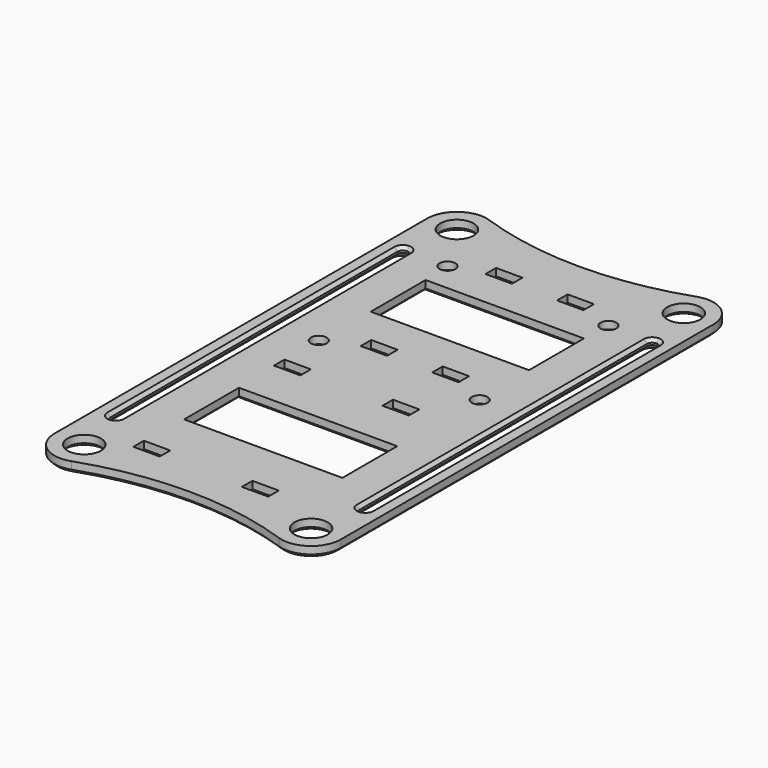
from build123d import *

# Parameters (mm, degrees)
F0_R     = 3.15
F0_W     = 5
F0_H     = 2.5
F0_W_2   = 30
F0_H_2   = 13
F0_R_2   = 1.5
F1_DEPTH = 2
F2_SIZE  = 0.6
F3_SIZE  = 1


with BuildPart() as f1:
    # F0 (on Top) → F1 (new body)
    with BuildSketch(Plane.XY):
        with BuildLine():
            ThreePointArc((19.649657, 49.48842), (0, 46.17961), (-19.649657, 49.48842))
            ThreePointArc((-19.649657, 49.48842), (-24.776283, 48.753093), (-27.15, 44.15))
            Line((-27.15, 44.15), (-27.15, -44.15))
            ThreePointArc((-27.15, -44.15), (-24.776283, -48.753093), (-19.649657, -49.48842))
            ThreePointArc((-19.649657, -49.48842), (0, -46.17961), (19.649657, -49.48842))
            ThreePointArc((19.649657, -49.48842), (24.776283, -48.753093), (27.15, -44.15))
            Line((27.15, -44.15), (27.15, 44.15))
            ThreePointArc((27.15, 44.15), (24.776283, 48.753093), (19.649657, 49.48842))
        make_face()
        with Locations((-21.5, -44.15)):
            Circle(F0_R, mode=Mode.SUBTRACT)
        with Locations((-12.882352, -38.913459)):
            Rectangle(F0_W, F0_H, mode=Mode.SUBTRACT)
        with Locations((-12.882352, -5.600822)):
            Rectangle(F0_W, F0_H, mode=Mode.SUBTRACT)
        with Locations((7.687139, -38.913459)):
            Rectangle(F0_W, F0_H, mode=Mode.SUBTRACT)
        with Locations((21.5, -44.15)):
            Circle(F0_R, mode=Mode.SUBTRACT)
        with Locations((0, -22.107908)):
            Rectangle(F0_W_2, F0_H_2, mode=Mode.SUBTRACT)
        with Locations((7.687139, -5.600822)):
            Rectangle(F0_W, F0_H, mode=Mode.SUBTRACT)
        with BuildLine():
            ThreePointArc((-22.65, -34), (-22.942893, -34.707107), (-23.65, -35))
            ThreePointArc((-23.65, -35), (-24.357107, -34.707107), (-24.65, -34))
            Line((-24.65, -34), (-24.65, 34))
            ThreePointArc((-24.65, 34), (-24.357107, 34.707107), (-23.65, 35))
            ThreePointArc((-23.65, 35), (-22.942893, 34.707107), (-22.65, 34))
            Line((-22.65, 34), (-22.65, -34))
        make_face(mode=Mode.SUBTRACT)
        with Locations((-15.25, 3.611581)):
            Circle(F0_R_2, mode=Mode.SUBTRACT)
        with Locations((-6.775575, 7.31866)):
            Rectangle(F0_W, F0_H, mode=Mode.SUBTRACT)
        with Locations((-15.25, 34.111581)):
            Circle(F0_R_2, mode=Mode.SUBTRACT)
        with Locations((-21.5, 44.15)):
            Circle(F0_R, mode=Mode.SUBTRACT)
        with Locations((-6.775575, 36.897157)):
            Rectangle(F0_W, F0_H, mode=Mode.SUBTRACT)
        with Locations((6.775575, 7.31866)):
            Rectangle(F0_W, F0_H, mode=Mode.SUBTRACT)
        with Locations((0, 22.107908)):
            Rectangle(F0_W_2, F0_H_2, mode=Mode.SUBTRACT)
        with Locations((15.25, 3.611581)):
            Circle(F0_R_2, mode=Mode.SUBTRACT)
        with BuildLine():
            Line((22.65, -34), (22.65, 34))
            ThreePointArc((22.65, 34), (22.942893, 34.707107), (23.65, 35))
            ThreePointArc((23.65, 35), (24.357107, 34.707107), (24.65, 34))
            Line((24.65, 34), (24.65, -34))
            ThreePointArc((24.65, -34), (24.357107, -34.707107), (23.65, -35))
            ThreePointArc((23.65, -35), (22.942893, -34.707107), (22.65, -34))
        make_face(mode=Mode.SUBTRACT)
        with Locations((6.775575, 36.897157)):
            Rectangle(F0_W, F0_H, mode=Mode.SUBTRACT)
        with Locations((15.25, 34.111581)):
            Circle(F0_R_2, mode=Mode.SUBTRACT)
        with Locations((21.5, 44.15)):
            Circle(F0_R, mode=Mode.SUBTRACT)
    extrude(amount=F1_DEPTH)

    # F2
    f2_edges = [f1.edges().sort_by_distance(p)[0] for p in [
        (27.15, 0, 0),
        (18.35, -44.15, 0),
        (-24.65, -44.15, 0),
        (-15.382352, -38.913459, 0),
        (-12.882352, -37.663459, 0),
        (-10.382352, -38.913459, 0),
        (-12.882352, -40.163459, 0),
        (5.187139, -38.913459, 0),
        (7.687139, -37.663459, 0),
        (10.187139, -38.913459, 0),
        (7.687139, -40.163459, 0),
        (0, -28.607908, 0),
        (15, -22.107908, 0),
        (0, -15.607908, 0),
        (-15, -22.107908, 0),
        (-15.382352, -5.600822, 0),
        (-12.882352, -6.850822, 0),
        (-10.382352, -5.600822, 0),
        (-12.882352, -4.350822, 0),
        (5.187139, -5.600822, 0),
        (7.687139, -4.350822, 0),
        (7.687139, -6.850822, 0),
        (10.187139, -5.600822, 0),
        (13.75, 3.611581, 0),
        (-16.75, 3.611581, 0),
        (9.275575, 7.31866, 0),
        (6.775575, 8.56866, 0),
        (6.775575, 6.06866, 0),
        (4.275575, 7.31866, 0),
        (-4.275575, 7.31866, 0),
        (-6.775575, 8.56866, 0),
        (-6.775575, 6.06866, 0),
        (-9.275575, 7.31866, 0),
        (0, 15.607908, 0),
        (15, 22.107908, 0),
        (0, 28.607908, 0),
        (-15, 22.107908, 0),
        (13.75, 34.111581, 0),
        (9.275575, 36.897157, 0),
        (6.775575, 35.647157, 0),
        (6.775575, 38.147157, 0),
        (4.275575, 36.897157, 0),
        (-4.275575, 36.897157, 0),
        (-6.775575, 38.147157, 0),
        (-6.775575, 35.647157, 0),
        (-9.275575, 36.897157, 0),
        (18.35, 44.15, 0),
        (-24.65, 44.15, 0),
        (-16.75, 34.111581, 0),
        (22.65, 0, 2),
        (-22.65, 0, 2),
    ]]
    chamfer(f2_edges, length=F2_SIZE)

    # F3
    f3_edges = [f1.edges().sort_by_distance(p)[0] for p in [
        (22.65, 0, 0),
        (-22.65, 0, 0),
    ]]
    chamfer(f3_edges, length=F3_SIZE)


solid = f1.part
